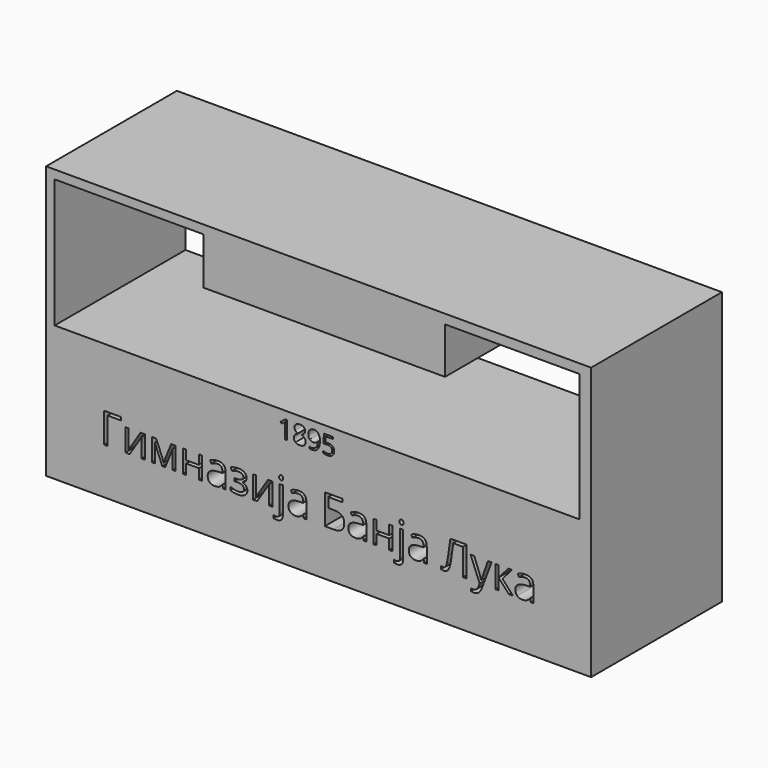
from build123d import *

# Parameters (mm, degrees)
F0_W     = 254
F0_H     = 80.4246884679
F0_H_2   = 6.6989886666
F0_H_3   = 39.8763228655
F1_DEPTH = 38.1


with BuildPart() as f1:
    # F0 (on Front) → F1 (new body, symmetric)
    with BuildSketch(Plane.XZ):
        with Locations((-18.8783840991, -40.2123442339)):
            Rectangle(F0_W, F0_H)
        with BuildLine():
            Line((-33.5726665378, -67.5467512968), (-33.5726665378, -75.8804157376))
            Line((-33.5726665378, -75.8804157376), (-34.4955893233, -75.8804157376))
            Line((-34.4955893233, -75.8804157376), (-34.4955893233, -69.9416082482))
            add(Edge.make_bspline(
                [(-34.4955893233, -69.9416082482), (-34.4955893233, -69.199257312), (-34.4499903715, -68.5389844891)],
                knots=[0, 0, 0, 1, 1, 1], degree=2))
            add(Edge.make_bspline(
                [(-34.4499903715, -68.5389844891), (-34.5685476463, -68.659365722), (-34.7172002294, -68.7897787243)],
                knots=[0, 0, 0, 1, 1, 1], degree=2))
            add(Edge.make_bspline(
                [(-34.7172002294, -68.7897787243), (-34.8658528124, -68.9201917266), (-36.0733130575, -69.9014811705)],
                knots=[0, 0, 0, 1, 1, 1], degree=2))
            Line((-36.0733130575, -69.9014811705), (-36.5749015279, -69.2521520961))
            Line((-36.5749015279, -69.2521520961), (-34.3697362162, -67.5467512968))
            Line((-34.3697362162, -67.5467512968), (-33.5726665378, -67.5467512968))
        make_face(mode=Mode.SUBTRACT)
        with BuildLine():
            add(Edge.make_bspline(
                [(-29.4377535837, -67.9662616539), (-28.7683609705, -67.428194022), (-27.6448027968, -67.428194022)],
                knots=[0, 0, 0, 1, 1, 1], degree=2))
            add(Edge.make_bspline(
                [(-27.6448027968, -67.428194022), (-26.5048290005, -67.428194022), (-25.8381723244, -67.9580538425)],
                knots=[0, 0, 0, 1, 1, 1], degree=2))
            add(Edge.make_bspline(
                [(-25.8381723244, -67.9580538425), (-25.1715156483, -68.4879136631), (-25.1715156483, -69.421780197)],
                knots=[0, 0, 0, 1, 1, 1], degree=2))
            add(Edge.make_bspline(
                [(-25.1715156483, -69.421780197), (-25.1715156483, -70.0382780261), (-25.5527228858, -70.5453383707)],
                knots=[0, 0, 0, 1, 1, 1], degree=2))
            add(Edge.make_bspline(
                [(-25.5527228858, -70.5453383707), (-25.9339301233, -71.0523987153), (-26.7729508374, -71.4682611562)],
                knots=[0, 0, 0, 1, 1, 1], degree=2))
            add(Edge.make_bspline(
                [(-26.7729508374, -71.4682611562), (-25.7588301481, -71.953434004), (-25.3311119797, -72.4860297616)],
                knots=[0, 0, 0, 1, 1, 1], degree=2))
            add(Edge.make_bspline(
                [(-25.3311119797, -72.4860297616), (-24.9033938114, -73.0186255193), (-24.9033938114, -73.7208493778)],
                knots=[0, 0, 0, 1, 1, 1], degree=2))
            add(Edge.make_bspline(
                [(-24.9033938114, -73.7208493778), (-24.9033938114, -74.7568575639), (-25.6275051668, -75.3760913301)],
                knots=[0, 0, 0, 1, 1, 1], degree=2))
            add(Edge.make_bspline(
                [(-25.6275051668, -75.3760913301), (-26.3516165222, -75.9953250963), (-27.6101475934, -75.9953250963)],
                knots=[0, 0, 0, 1, 1, 1], degree=2))
            add(Edge.make_bspline(
                [(-27.6101475934, -75.9953250963), (-28.9434609456, -75.9953250963), (-29.6621004268, -75.4107465335)],
                knots=[0, 0, 0, 1, 1, 1], degree=2))
            add(Edge.make_bspline(
                [(-29.6621004268, -75.4107465335), (-30.380739908, -74.8261679708), (-30.380739908, -73.7536806232)],
                knots=[0, 0, 0, 1, 1, 1], degree=2))
            add(Edge.make_bspline(
                [(-30.380739908, -73.7536806232), (-30.380739908, -72.323697493), (-28.6370359892, -71.5248038565)],
                knots=[0, 0, 0, 1, 1, 1], degree=2))
            add(Edge.make_bspline(
                [(-28.6370359892, -71.5248038565), (-29.4231619191, -71.0815820445), (-29.765154058, -70.5654019095)],
                knots=[0, 0, 0, 1, 1, 1], degree=2))
            add(Edge.make_bspline(
                [(-29.765154058, -70.5654019095), (-30.1071461969, -70.0492217746), (-30.1071461969, -69.4108364486)],
                knots=[0, 0, 0, 1, 1, 1], degree=2))
            add(Edge.make_bspline(
                [(-30.1071461969, -69.4108364486), (-30.1071461969, -68.5043292857), (-29.4377535837, -67.9662616539)],
                knots=[0, 0, 0, 1, 1, 1], degree=2))
        make_face(mode=Mode.SUBTRACT)
        with BuildLine():
            add(Edge.make_bspline(
                [(-18.5934108538, -69.1345068004), (-18.2514187149, -69.9689676193), (-18.2514187149, -71.1034695414)],
                knots=[0, 0, 0, 1, 1, 1], degree=2))
            add(Edge.make_bspline(
                [(-18.2514187149, -71.1034695414), (-18.2514187149, -75.9953250963), (-22.0361317188, -75.9953250963)],
                knots=[0, 0, 0, 1, 1, 1], degree=2))
            add(Edge.make_bspline(
                [(-22.0361317188, -75.9953250963), (-22.6982284997, -75.9953250963), (-23.0849076114, -75.8804157376)],
                knots=[0, 0, 0, 1, 1, 1], degree=2))
            Line((-23.0849076114, -75.8804157376), (-23.0849076114, -75.0651064785))
            add(Edge.make_bspline(
                [(-23.0849076114, -75.0651064785), (-22.6289180929, -75.2128470825), (-22.0488994253, -75.2128470825)],
                knots=[0, 0, 0, 1, 1, 1], degree=2))
            add(Edge.make_bspline(
                [(-22.0488994253, -75.2128470825), (-20.6809308697, -75.2128470825), (-19.9823549273, -74.3665305361)],
                knots=[0, 0, 0, 1, 1, 1], degree=2))
            add(Edge.make_bspline(
                [(-19.9823549273, -74.3665305361), (-19.2837789849, -73.5202139897), (-19.2217644104, -71.7710381966)],
                knots=[0, 0, 0, 1, 1, 1], degree=2))
            Line((-19.2217644104, -71.7710381966), (-19.2892508591, -71.7710381966))
            add(Edge.make_bspline(
                [(-19.2892508591, -71.7710381966), (-19.6029716479, -72.2434433378), (-20.12188772, -72.4915016358)],
                knots=[0, 0, 0, 1, 1, 1], degree=2))
            add(Edge.make_bspline(
                [(-20.12188772, -72.4915016358), (-20.640803792, -72.7395599339), (-21.2901328664, -72.7395599339)],
                knots=[0, 0, 0, 1, 1, 1], degree=2))
            add(Edge.make_bspline(
                [(-21.2901328664, -72.7395599339), (-22.3954514594, -72.7395599339), (-23.0456925128, -72.078375132)],
                knots=[0, 0, 0, 1, 1, 1], degree=2))
            add(Edge.make_bspline(
                [(-23.0456925128, -72.078375132), (-23.6959335663, -71.4171903302), (-23.6959335663, -70.231617582)],
                knots=[0, 0, 0, 1, 1, 1], degree=2))
            add(Edge.make_bspline(
                [(-23.6959335663, -70.231617582), (-23.6959335663, -68.9329594332), (-22.9690862737, -68.1805767276)],
                knots=[0, 0, 0, 1, 1, 1], degree=2))
            add(Edge.make_bspline(
                [(-22.9690862737, -68.1805767276), (-22.2422389812, -67.428194022), (-21.056666233, -67.428194022)],
                knots=[0, 0, 0, 1, 1, 1], degree=2))
            add(Edge.make_bspline(
                [(-21.056666233, -67.428194022), (-20.2067017704, -67.428194022), (-19.5710523816, -67.8641200017)],
                knots=[0, 0, 0, 1, 1, 1], degree=2))
            add(Edge.make_bspline(
                [(-19.5710523816, -67.8641200017), (-18.9354029927, -68.3000459814), (-18.5934108538, -69.1345068004)],
                knots=[0, 0, 0, 1, 1, 1], degree=2))
        make_face(mode=Mode.SUBTRACT)
        with BuildLine():
            add(Edge.make_bspline(
                [(-15.7562440695, -70.921073734), (-15.1014431208, -70.7897487527), (-14.4502900884, -70.7897487527)],
                knots=[0, 0, 0, 1, 1, 1], degree=2))
            add(Edge.make_bspline(
                [(-14.4502900884, -70.7897487527), (-13.1333923588, -70.7897487527), (-12.3782737161, -71.4427257432)],
                knots=[0, 0, 0, 1, 1, 1], degree=2))
            add(Edge.make_bspline(
                [(-12.3782737161, -71.4427257432), (-11.6231550734, -72.0957027338), (-11.6231550734, -73.2302046559)],
                knots=[0, 0, 0, 1, 1, 1], degree=2))
            add(Edge.make_bspline(
                [(-11.6231550734, -73.2302046559), (-11.6231550734, -74.5233909305), (-12.4466721439, -75.2593580134)],
                knots=[0, 0, 0, 1, 1, 1], degree=2))
            add(Edge.make_bspline(
                [(-12.4466721439, -75.2593580134), (-13.2701892144, -75.9953250963), (-14.7184119253, -75.9953250963)],
                knots=[0, 0, 0, 1, 1, 1], degree=2))
            add(Edge.make_bspline(
                [(-14.7184119253, -75.9953250963), (-16.1265075585, -75.9953250963), (-16.8670345366, -75.544807452)],
                knots=[0, 0, 0, 1, 1, 1], degree=2))
            Line((-16.8670345366, -75.544807452), (-16.8670345366, -74.6328284149))
            add(Edge.make_bspline(
                [(-16.8670345366, -74.6328284149), (-16.4694116765, -74.8881825453), (-15.8766253024, -75.0340991912)],
                knots=[0, 0, 0, 1, 1, 1], degree=2))
            add(Edge.make_bspline(
                [(-15.8766253024, -75.0340991912), (-15.2838389283, -75.1800158372), (-14.7074681768, -75.1800158372)],
                knots=[0, 0, 0, 1, 1, 1], degree=2))
            add(Edge.make_bspline(
                [(-14.7074681768, -75.1800158372), (-13.704291236, -75.1800158372), (-13.1488960024, -74.7066987169)],
                knots=[0, 0, 0, 1, 1, 1], degree=2))
            add(Edge.make_bspline(
                [(-13.1488960024, -74.7066987169), (-12.5935007689, -74.2333815967), (-12.5935007689, -73.3378181823)],
                knots=[0, 0, 0, 1, 1, 1], degree=2))
            add(Edge.make_bspline(
                [(-12.5935007689, -73.3378181823), (-12.5935007689, -71.5941142634), (-14.7293556737, -71.5941142634)],
                knots=[0, 0, 0, 1, 1, 1], degree=2))
            add(Edge.make_bspline(
                [(-14.7293556737, -71.5941142634), (-15.2710712217, -71.5941142634), (-16.1775783846, -71.7600944481)],
                knots=[0, 0, 0, 1, 1, 1], degree=2))
            Line((-16.1775783846, -71.7600944481), (-16.6682231065, -71.4463736594))
            Line((-16.6682231065, -71.4463736594), (-16.3545023178, -67.5467512968))
            Line((-16.3545023178, -67.5467512968), (-12.2104695733, -67.5467512968))
            Line((-12.2104695733, -67.5467512968), (-12.2104695733, -68.4186032563))
            Line((-12.2104695733, -68.4186032563), (-15.5446649329, -68.4186032563))
            Line((-15.5446649329, -68.4186032563), (-15.7562440695, -70.921073734))
        make_face(mode=Mode.SUBTRACT)
        Polygon((-141.880650785, -63.996888092), (-141.880650785, -4.0593039032), (-72.6079227722, -4.0593039032), (-72.6079227722, -25.9319059551), (40.0382733046, -25.9319059551), (40.0382733046, -4.3713459507), (102.7581814154, -4.3713459507), (102.7581814154, -63.996888092), (40.0382733046, -63.996888092), (-72.6079227722, -63.996888092), align=None, mode=Mode.SUBTRACT)
        with Locations((-18.8783840991, -83.7741828012)):
            Rectangle(F0_W, F0_H_2)
        with Locations((-18.8783840991, -107.0618385673)):
            Rectangle(F0_W, F0_H_3)
        Polygon((-118.8180874411, -91.472205822), (-111.0443757989, -91.472205822), (-111.0443757989, -92.9311120509), (-117.1974196429, -92.9311120509), (-117.1974196429, -105.4172739387), (-118.8180874411, -105.4172739387), align=None, mode=Mode.SUBTRACT)
        Polygon((-108.8987459268, -94.9638140351), (-107.4093186471, -94.9638140351), (-107.4093186471, -101.5929862717), (-107.4764649589, -103.329634063), (-107.5069860097, -103.8729087675), (-101.851435294, -94.9638140351), (-99.8767233063, -94.9638140351), (-99.8767233063, -105.4172739387), (-101.3539421657, -105.4172739387), (-101.3539421657, -99.0261658983), (-101.32647322, -97.7686986048), (-101.2776395387, -96.5264918367), (-106.9240339391, -105.4172739387), (-108.8987459268, -105.4172739387), align=None, mode=Mode.SUBTRACT)
        with BuildLine():
            add(Edge.make_bspline(
                [(-91.8466348373, -101.6112989022), (-91.4346006514, -102.6612230502), (-91.0927648823, -103.891221398)],
                knots=[0, 0, 0, 1, 1, 1], degree=2))
            Line((-91.0927648823, -103.891221398), (-90.7967106894, -103.0030588193))
            Line((-90.7967106894, -103.0030588193), (-90.3877286085, -101.8798841494))
            Line((-90.3877286085, -101.8798841494), (-87.5523229879, -94.9821266656))
            Line((-87.5523229879, -94.9821266656), (-85.5409857393, -94.9821266656))
            Line((-85.5409857393, -94.9821266656), (-85.5409857393, -105.4172739387))
            Line((-85.5409857393, -105.4172739387), (-86.9419019716, -105.4172739387))
            Line((-86.9419019716, -105.4172739387), (-86.9419019716, -96.7859207686))
            Line((-86.9419019716, -96.7859207686), (-87.1341845918, -97.3383517884))
            Line((-87.1341845918, -97.3383517884), (-87.6866156115, -98.7972580172))
            Line((-87.6866156115, -98.7972580172), (-90.3877286085, -105.4172739387))
            Line((-90.3877286085, -105.4172739387), (-91.7123422138, -105.4172739387))
            Line((-91.7123422138, -105.4172739387), (-94.4104031057, -98.7789453868))
            add(Edge.make_bspline(
                [(-94.4104031057, -98.7789453868), (-94.9170525492, -97.5001133577), (-95.1062830642, -96.7859207686)],
                knots=[0, 0, 0, 1, 1, 1], degree=2))
            Line((-95.1062830642, -96.7859207686), (-95.1062830642, -105.4172739387))
            Line((-95.1062830642, -105.4172739387), (-96.5194077169, -105.4172739387))
            Line((-96.5194077169, -105.4172739387), (-96.5194077169, -94.9821266656))
            Line((-96.5194077169, -94.9821266656), (-94.5843730953, -94.9821266656))
            Line((-94.5843730953, -94.9821266656), (-91.8466348373, -101.6112989022))
        make_face(mode=Mode.SUBTRACT)
        Polygon((-82.1653575194, -94.9638140351), (-80.5813149821, -94.9638140351), (-80.5813149821, -99.3405327217), (-74.7243253311, -99.3405327217), (-74.7243253311, -94.9638140351), (-73.1433348989, -94.9638140351), (-73.1433348989, -105.4172739387), (-74.7243253311, -105.4172739387), (-74.7243253311, -100.7048236931), (-80.5813149821, -100.7048236931), (-80.5813149821, -105.4172739387), (-82.1653575194, -105.4172739387), align=None, mode=Mode.SUBTRACT)
        with BuildLine():
            Line((-62.1832255519, -105.4172739387), (-63.3582860082, -105.4172739387))
            Line((-63.3582860082, -105.4172739387), (-63.6726528316, -103.927846659))
            Line((-63.6726528316, -103.927846659), (-63.7489554586, -103.927846659))
            add(Edge.make_bspline(
                [(-63.7489554586, -103.927846659), (-64.5302943594, -104.9106244952), (-65.3070551026, -105.260090527)],
                knots=[0, 0, 0, 1, 1, 1], degree=2))
            add(Edge.make_bspline(
                [(-65.3070551026, -105.260090527), (-66.0838158458, -105.6095565588), (-67.2497199869, -105.6095565588)],
                knots=[0, 0, 0, 1, 1, 1], degree=2))
            add(Edge.make_bspline(
                [(-67.2497199869, -105.6095565588), (-68.8032414733, -105.6095565588), (-69.6852998418, -104.8068529224)],
                knots=[0, 0, 0, 1, 1, 1], degree=2))
            add(Edge.make_bspline(
                [(-69.6852998418, -104.8068529224), (-70.5673582103, -104.004149286), (-70.5673582103, -102.5269304266)],
                knots=[0, 0, 0, 1, 1, 1], degree=2))
            add(Edge.make_bspline(
                [(-70.5673582103, -102.5269304266), (-70.5673582103, -99.3618974573), (-65.5039158804, -99.2092922032)],
                knots=[0, 0, 0, 1, 1, 1], degree=2))
            Line((-65.5039158804, -99.2092922032), (-63.7306428281, -99.1513022067))
            Line((-63.7306428281, -99.1513022067), (-63.7306428281, -98.5012038244))
            add(Edge.make_bspline(
                [(-63.7306428281, -98.5012038244), (-63.7306428281, -97.2712054766), (-64.2586570072, -96.685201301)],
                knots=[0, 0, 0, 1, 1, 1], degree=2))
            add(Edge.make_bspline(
                [(-64.2586570072, -96.685201301), (-64.7866711862, -96.0991971253), (-65.9525753273, -96.0991971253)],
                knots=[0, 0, 0, 1, 1, 1], degree=2))
            add(Edge.make_bspline(
                [(-65.9525753273, -96.0991971253), (-67.2588763021, -96.0991971253), (-68.907013046, -96.8988486567)],
                knots=[0, 0, 0, 1, 1, 1], degree=2))
            Line((-68.907013046, -96.8988486567), (-69.3953498591, -95.6871629394))
            add(Edge.make_bspline(
                [(-69.3953498591, -95.6871629394), (-68.6231672735, -95.2690245432), (-67.7029575915, -95.0309603469)],
                knots=[0, 0, 0, 1, 1, 1], degree=2))
            add(Edge.make_bspline(
                [(-67.7029575915, -95.0309603469), (-66.7827479094, -94.7928961505), (-65.8549079647, -94.7928961505)],
                knots=[0, 0, 0, 1, 1, 1], degree=2))
            add(Edge.make_bspline(
                [(-65.8549079647, -94.7928961505), (-63.9870196549, -94.7928961505), (-63.0851226034, -95.6215426801)],
                knots=[0, 0, 0, 1, 1, 1], degree=2))
            add(Edge.make_bspline(
                [(-63.0851226034, -95.6215426801), (-62.1832255519, -96.4501892097), (-62.1832255519, -98.2814522585)],
                knots=[0, 0, 0, 1, 1, 1], degree=2))
            Line((-62.1832255519, -98.2814522585), (-62.1832255519, -105.4172739387))
        make_face(mode=Mode.SUBTRACT)
        with BuildLine():
            Line((-58.0659357971, -99.3039074607), (-56.9305527069, -99.3039074607))
            add(Edge.make_bspline(
                [(-56.9305527069, -99.3039074607), (-53.9639065678, -99.3039074607), (-53.9639065678, -97.661874927)],
                knots=[0, 0, 0, 1, 1, 1], degree=2))
            add(Edge.make_bspline(
                [(-53.9639065678, -97.661874927), (-53.9639065678, -96.1175097558), (-56.3659132668, -96.1175097558)],
                knots=[0, 0, 0, 1, 1, 1], degree=2))
            add(Edge.make_bspline(
                [(-56.3659132668, -96.1175097558), (-57.1014705914, -96.1175097558), (-57.7027352925, -96.2518023794)],
                knots=[0, 0, 0, 1, 1, 1], degree=2))
            add(Edge.make_bspline(
                [(-57.7027352925, -96.2518023794), (-58.3039999935, -96.386095003), (-59.2776215144, -96.7859207686)],
                knots=[0, 0, 0, 1, 1, 1], degree=2))
            Line((-59.2776215144, -96.7859207686), (-59.8392088494, -95.4979324243))
            add(Edge.make_bspline(
                [(-59.8392088494, -95.4979324243), (-58.2185410512, -94.771531415), (-56.3018190601, -94.771531415)],
                knots=[0, 0, 0, 1, 1, 1], degree=2))
            add(Edge.make_bspline(
                [(-56.3018190601, -94.771531415), (-54.4980249571, -94.771531415), (-53.4587831769, -95.5116668972)],
                knots=[0, 0, 0, 1, 1, 1], degree=2))
            add(Edge.make_bspline(
                [(-53.4587831769, -95.5116668972), (-52.4195413967, -96.2518023794), (-52.4195413967, -97.5306344085)],
                knots=[0, 0, 0, 1, 1, 1], degree=2))
            add(Edge.make_bspline(
                [(-52.4195413967, -97.5306344085), (-52.4195413967, -99.2855948303), (-54.3728886487, -99.8288695347)],
                knots=[0, 0, 0, 1, 1, 1], degree=2))
            Line((-54.3728886487, -99.8288695347), (-54.3728886487, -99.9051721618))
            add(Edge.make_bspline(
                [(-54.3728886487, -99.9051721618), (-53.1734113518, -100.2561642461), (-52.6194542795, -100.9093147335)],
                knots=[0, 0, 0, 1, 1, 1], degree=2))
            add(Edge.make_bspline(
                [(-52.6194542795, -100.9093147335), (-52.0654972072, -101.5624652209), (-52.0654972072, -102.5452430571)],
                knots=[0, 0, 0, 1, 1, 1], degree=2))
            add(Edge.make_bspline(
                [(-52.0654972072, -102.5452430571), (-52.0654972072, -103.9949929708), (-53.2344534534, -104.8022747648)],
                knots=[0, 0, 0, 1, 1, 1], degree=2))
            add(Edge.make_bspline(
                [(-53.2344534534, -104.8022747648), (-54.4034096995, -105.6095565588), (-56.4635806294, -105.6095565588)],
                knots=[0, 0, 0, 1, 1, 1], degree=2))
            add(Edge.make_bspline(
                [(-56.4635806294, -105.6095565588), (-58.7221383896, -105.6095565588), (-59.9521367374, -104.9319892307)],
                knots=[0, 0, 0, 1, 1, 1], degree=2))
            Line((-59.9521367374, -104.9319892307), (-59.9521367374, -103.4822393171))
            add(Edge.make_bspline(
                [(-59.9521367374, -103.4822393171), (-58.209384736, -104.3002034789), (-56.4239032634, -104.3002034789)],
                knots=[0, 0, 0, 1, 1, 1], degree=2))
            add(Edge.make_bspline(
                [(-56.4239032634, -104.3002034789), (-55.0504559768, -104.3002034789), (-54.3499978606, -103.8286532438)],
                knots=[0, 0, 0, 1, 1, 1], degree=2))
            add(Edge.make_bspline(
                [(-54.3499978606, -103.8286532438), (-53.6495397444, -103.3571030088), (-53.6495397444, -102.4689404301)],
                knots=[0, 0, 0, 1, 1, 1], degree=2))
            add(Edge.make_bspline(
                [(-53.6495397444, -102.4689404301), (-53.6495397444, -100.6468336965), (-56.6161858835, -100.6468336965)],
                knots=[0, 0, 0, 1, 1, 1], degree=2))
            Line((-56.6161858835, -100.6468336965), (-58.0659357971, -100.6468336965))
            Line((-58.0659357971, -100.6468336965), (-58.0659357971, -99.3039074607))
        make_face(mode=Mode.SUBTRACT)
        Polygon((-49.4895205186, -94.9638140351), (-48.0000932389, -94.9638140351), (-48.0000932389, -101.5929862717), (-48.0672395507, -103.329634063), (-48.0977606015, -103.8729087675), (-42.4422098858, -94.9638140351), (-40.4674978982, -94.9638140351), (-40.4674978982, -105.4172739387), (-41.9447167575, -105.4172739387), (-41.9447167575, -99.0261658983), (-41.9172478118, -97.7686986048), (-41.8684141305, -96.5264918367), (-47.514808531, -105.4172739387), (-49.4895205186, -105.4172739387), align=None, mode=Mode.SUBTRACT)
        with BuildLine():
            add(Edge.make_bspline(
                [(-35.5261397715, -107.0196291064), (-35.5261397715, -110.1114115537), (-38.3798580225, -110.1114115537)],
                knots=[0, 0, 0, 1, 1, 1], degree=2))
            add(Edge.make_bspline(
                [(-38.3798580225, -110.1114115537), (-39.2863332317, -110.1114115537), (-39.8479205667, -109.8702952523)],
                knots=[0, 0, 0, 1, 1, 1], degree=2))
            Line((-39.8479205667, -109.8702952523), (-39.8479205667, -108.5853590131))
            add(Edge.make_bspline(
                [(-39.8479205667, -108.5853590131), (-39.1886658691, -108.7745895281), (-38.5507759071, -108.7745895281)],
                knots=[0, 0, 0, 1, 1, 1], degree=2))
            add(Edge.make_bspline(
                [(-38.5507759071, -108.7745895281), (-37.8060622672, -108.7745895281), (-37.458122288, -108.3686595523)],
                knots=[0, 0, 0, 1, 1, 1], degree=2))
            add(Edge.make_bspline(
                [(-37.458122288, -108.3686595523), (-37.1101823087, -107.9627295765), (-37.1101823087, -107.1356090994)],
                knots=[0, 0, 0, 1, 1, 1], degree=2))
            Line((-37.1101823087, -107.1356090994), (-37.1101823087, -94.9638140351))
            Line((-37.1101823087, -94.9638140351), (-35.5261397715, -94.9638140351))
            Line((-35.5261397715, -94.9638140351), (-35.5261397715, -107.0196291064))
        make_face(mode=Mode.SUBTRACT)
        with BuildLine():
            Line((-24.5660304244, -105.4172739387), (-25.7410908807, -105.4172739387))
            Line((-25.7410908807, -105.4172739387), (-26.0554577041, -103.927846659))
            Line((-26.0554577041, -103.927846659), (-26.1317603311, -103.927846659))
            add(Edge.make_bspline(
                [(-26.1317603311, -103.927846659), (-26.913099232, -104.9106244952), (-27.6898599752, -105.260090527)],
                knots=[0, 0, 0, 1, 1, 1], degree=2))
            add(Edge.make_bspline(
                [(-27.6898599752, -105.260090527), (-28.4666207184, -105.6095565588), (-29.6325248594, -105.6095565588)],
                knots=[0, 0, 0, 1, 1, 1], degree=2))
            add(Edge.make_bspline(
                [(-29.6325248594, -105.6095565588), (-31.1860463458, -105.6095565588), (-32.0681047143, -104.8068529224)],
                knots=[0, 0, 0, 1, 1, 1], degree=2))
            add(Edge.make_bspline(
                [(-32.0681047143, -104.8068529224), (-32.9501630828, -104.004149286), (-32.9501630828, -102.5269304266)],
                knots=[0, 0, 0, 1, 1, 1], degree=2))
            add(Edge.make_bspline(
                [(-32.9501630828, -102.5269304266), (-32.9501630828, -99.3618974573), (-27.8867207529, -99.2092922032)],
                knots=[0, 0, 0, 1, 1, 1], degree=2))
            Line((-27.8867207529, -99.2092922032), (-26.1134477006, -99.1513022067))
            Line((-26.1134477006, -99.1513022067), (-26.1134477006, -98.5012038244))
            add(Edge.make_bspline(
                [(-26.1134477006, -98.5012038244), (-26.1134477006, -97.2712054766), (-26.6414618797, -96.685201301)],
                knots=[0, 0, 0, 1, 1, 1], degree=2))
            add(Edge.make_bspline(
                [(-26.6414618797, -96.685201301), (-27.1694760588, -96.0991971253), (-28.3353801999, -96.0991971253)],
                knots=[0, 0, 0, 1, 1, 1], degree=2))
            add(Edge.make_bspline(
                [(-28.3353801999, -96.0991971253), (-29.6416811747, -96.0991971253), (-31.2898179186, -96.8988486567)],
                knots=[0, 0, 0, 1, 1, 1], degree=2))
            Line((-31.2898179186, -96.8988486567), (-31.7781547316, -95.6871629394))
            add(Edge.make_bspline(
                [(-31.7781547316, -95.6871629394), (-31.005972146, -95.2690245432), (-30.085762464, -95.0309603469)],
                knots=[0, 0, 0, 1, 1, 1], degree=2))
            add(Edge.make_bspline(
                [(-30.085762464, -95.0309603469), (-29.165552782, -94.7928961505), (-28.2377128373, -94.7928961505)],
                knots=[0, 0, 0, 1, 1, 1], degree=2))
            add(Edge.make_bspline(
                [(-28.2377128373, -94.7928961505), (-26.3698245275, -94.7928961505), (-25.4679274759, -95.6215426801)],
                knots=[0, 0, 0, 1, 1, 1], degree=2))
            add(Edge.make_bspline(
                [(-25.4679274759, -95.6215426801), (-24.5660304244, -96.4501892097), (-24.5660304244, -98.2814522585)],
                knots=[0, 0, 0, 1, 1, 1], degree=2))
            Line((-24.5660304244, -98.2814522585), (-24.5660304244, -105.4172739387))
        make_face(mode=Mode.SUBTRACT)
        with BuildLine():
            add(Edge.make_bspline(
                [(-36.9774157377, -92.9280599458), (-37.2444749323, -92.6655789088), (-37.2444749323, -92.1314605196)],
                knots=[0, 0, 0, 1, 1, 1], degree=2))
            add(Edge.make_bspline(
                [(-37.2444749323, -92.1314605196), (-37.2444749323, -91.5881858151), (-36.9774157377, -91.3348610934)],
                knots=[0, 0, 0, 1, 1, 1], degree=2))
            add(Edge.make_bspline(
                [(-36.9774157377, -91.3348610934), (-36.710356543, -91.0815363716), (-36.3074786723, -91.0815363716)],
                knots=[0, 0, 0, 1, 1, 1], degree=2))
            add(Edge.make_bspline(
                [(-36.3074786723, -91.0815363716), (-35.9259655371, -91.0815363716), (-35.6497500273, -91.339439251)],
                knots=[0, 0, 0, 1, 1, 1], degree=2))
            add(Edge.make_bspline(
                [(-35.6497500273, -91.339439251), (-35.3735345174, -91.5973421304), (-35.3735345174, -92.1314605196)],
                knots=[0, 0, 0, 1, 1, 1], degree=2))
            add(Edge.make_bspline(
                [(-35.3735345174, -92.1314605196), (-35.3735345174, -92.6655789088), (-35.6497500273, -92.9280599458)],
                knots=[0, 0, 0, 1, 1, 1], degree=2))
            add(Edge.make_bspline(
                [(-35.6497500273, -92.9280599458), (-35.9259655371, -93.1905409828), (-36.3074786723, -93.1905409828)],
                knots=[0, 0, 0, 1, 1, 1], degree=2))
            add(Edge.make_bspline(
                [(-36.3074786723, -93.1905409828), (-36.710356543, -93.1905409828), (-36.9774157377, -92.9280599458)],
                knots=[0, 0, 0, 1, 1, 1], degree=2))
        make_face(mode=Mode.SUBTRACT)
        with BuildLine():
            add(Edge.make_bspline(
                [(-7.5032369672, -99.1024685254), (-6.949279895, -99.9326411075), (-6.949279895, -101.3549220754)],
                knots=[0, 0, 0, 1, 1, 1], degree=2))
            add(Edge.make_bspline(
                [(-6.949279895, -101.3549220754), (-6.949279895, -103.4334056358), (-8.1853824529, -104.4253397872)],
                knots=[0, 0, 0, 1, 1, 1], degree=2))
            add(Edge.make_bspline(
                [(-8.1853824529, -104.4253397872), (-9.4214850108, -105.4172739387), (-11.9089506521, -105.4172739387)],
                knots=[0, 0, 0, 1, 1, 1], degree=2))
            Line((-11.9089506521, -105.4172739387), (-15.9926672509, -105.4172739387))
            Line((-15.9926672509, -105.4172739387), (-15.9926672509, -91.472205822))
            Line((-15.9926672509, -91.472205822), (-7.7702961618, -91.472205822))
            Line((-7.7702961618, -91.472205822), (-7.7702961618, -92.9127994204))
            Line((-7.7702961618, -92.9127994204), (-14.3719994528, -92.9127994204))
            Line((-14.3719994528, -92.9127994204), (-14.3719994528, -97.4238107306))
            Line((-14.3719994528, -97.4238107306), (-12.205004845, -97.4238107306))
            add(Edge.make_bspline(
                [(-12.205004845, -97.4238107306), (-10.364585481, -97.4238107306), (-9.2108897602, -97.8480533369)],
                knots=[0, 0, 0, 1, 1, 1], degree=2))
            add(Edge.make_bspline(
                [(-9.2108897602, -97.8480533369), (-8.0571940395, -98.2722959433), (-7.5032369672, -99.1024685254)],
                knots=[0, 0, 0, 1, 1, 1], degree=2))
        make_face(mode=Mode.SUBTRACT)
        with BuildLine():
            Line((3.3424184393, -105.4172739387), (2.167357983, -105.4172739387))
            Line((2.167357983, -105.4172739387), (1.8529911596, -103.927846659))
            Line((1.8529911596, -103.927846659), (1.7766885326, -103.927846659))
            add(Edge.make_bspline(
                [(1.7766885326, -103.927846659), (0.9953496318, -104.9106244952), (0.2185888886, -105.260090527)],
                knots=[0, 0, 0, 1, 1, 1], degree=2))
            add(Edge.make_bspline(
                [(0.2185888886, -105.260090527), (-0.5581718546, -105.6095565588), (-1.7240759957, -105.6095565588)],
                knots=[0, 0, 0, 1, 1, 1], degree=2))
            add(Edge.make_bspline(
                [(-1.7240759957, -105.6095565588), (-3.2775974821, -105.6095565588), (-4.1596558506, -104.8068529224)],
                knots=[0, 0, 0, 1, 1, 1], degree=2))
            add(Edge.make_bspline(
                [(-4.1596558506, -104.8068529224), (-5.0417142191, -104.004149286), (-5.0417142191, -102.5269304266)],
                knots=[0, 0, 0, 1, 1, 1], degree=2))
            add(Edge.make_bspline(
                [(-5.0417142191, -102.5269304266), (-5.0417142191, -99.3618974573), (0.0217281108, -99.2092922032)],
                knots=[0, 0, 0, 1, 1, 1], degree=2))
            Line((0.0217281108, -99.2092922032), (1.7950011631, -99.1513022067))
            Line((1.7950011631, -99.1513022067), (1.7950011631, -98.5012038244))
            add(Edge.make_bspline(
                [(1.7950011631, -98.5012038244), (1.7950011631, -97.2712054766), (1.266986984, -96.685201301)],
                knots=[0, 0, 0, 1, 1, 1], degree=2))
            add(Edge.make_bspline(
                [(1.266986984, -96.685201301), (0.7389728049, -96.0991971253), (-0.4269313361, -96.0991971253)],
                knots=[0, 0, 0, 1, 1, 1], degree=2))
            add(Edge.make_bspline(
                [(-0.4269313361, -96.0991971253), (-1.733232311, -96.0991971253), (-3.3813690549, -96.8988486567)],
                knots=[0, 0, 0, 1, 1, 1], degree=2))
            Line((-3.3813690549, -96.8988486567), (-3.8697058679, -95.6871629394))
            add(Edge.make_bspline(
                [(-3.8697058679, -95.6871629394), (-3.0975232823, -95.2690245432), (-2.1773136003, -95.0309603469)],
                knots=[0, 0, 0, 1, 1, 1], degree=2))
            add(Edge.make_bspline(
                [(-2.1773136003, -95.0309603469), (-1.2571039183, -94.7928961505), (-0.3292639735, -94.7928961505)],
                knots=[0, 0, 0, 1, 1, 1], degree=2))
            add(Edge.make_bspline(
                [(-0.3292639735, -94.7928961505), (1.5386243362, -94.7928961505), (2.4405213878, -95.6215426801)],
                knots=[0, 0, 0, 1, 1, 1], degree=2))
            add(Edge.make_bspline(
                [(2.4405213878, -95.6215426801), (3.3424184393, -96.4501892097), (3.3424184393, -98.2814522585)],
                knots=[0, 0, 0, 1, 1, 1], degree=2))
            Line((3.3424184393, -98.2814522585), (3.3424184393, -105.4172739387))
        make_face(mode=Mode.SUBTRACT)
        Polygon((6.6020666662, -94.9638140351), (8.1861092034, -94.9638140351), (8.1861092034, -99.3405327217), (14.0430988545, -99.3405327217), (14.0430988545, -94.9638140351), (15.6240892866, -94.9638140351), (15.6240892866, -105.4172739387), (14.0430988545, -105.4172739387), (14.0430988545, -100.7048236931), (8.1861092034, -100.7048236931), (8.1861092034, -105.4172739387), (6.6020666662, -105.4172739387), align=None, mode=Mode.SUBTRACT)
        with BuildLine():
            add(Edge.make_bspline(
                [(20.5654474133, -107.0196291064), (20.5654474133, -110.1114115537), (17.7117291622, -110.1114115537)],
                knots=[0, 0, 0, 1, 1, 1], degree=2))
            add(Edge.make_bspline(
                [(17.7117291622, -110.1114115537), (16.8052539531, -110.1114115537), (16.2436666181, -109.8702952523)],
                knots=[0, 0, 0, 1, 1, 1], degree=2))
            Line((16.2436666181, -109.8702952523), (16.2436666181, -108.5853590131))
            add(Edge.make_bspline(
                [(16.2436666181, -108.5853590131), (16.9029213157, -108.7745895281), (17.5408112777, -108.7745895281)],
                knots=[0, 0, 0, 1, 1, 1], degree=2))
            add(Edge.make_bspline(
                [(17.5408112777, -108.7745895281), (18.2855249175, -108.7745895281), (18.6334648968, -108.3686595523)],
                knots=[0, 0, 0, 1, 1, 1], degree=2))
            add(Edge.make_bspline(
                [(18.6334648968, -108.3686595523), (18.9814048761, -107.9627295765), (18.9814048761, -107.1356090994)],
                knots=[0, 0, 0, 1, 1, 1], degree=2))
            Line((18.9814048761, -107.1356090994), (18.9814048761, -94.9638140351))
            Line((18.9814048761, -94.9638140351), (20.5654474133, -94.9638140351))
            Line((20.5654474133, -94.9638140351), (20.5654474133, -107.0196291064))
        make_face(mode=Mode.SUBTRACT)
        with BuildLine():
            Line((31.5255567604, -105.4172739387), (30.350496304, -105.4172739387))
            Line((30.350496304, -105.4172739387), (30.0361294807, -103.927846659))
            Line((30.0361294807, -103.927846659), (29.9598268536, -103.927846659))
            add(Edge.make_bspline(
                [(29.9598268536, -103.927846659), (29.1784879528, -104.9106244952), (28.4017272096, -105.260090527)],
                knots=[0, 0, 0, 1, 1, 1], degree=2))
            add(Edge.make_bspline(
                [(28.4017272096, -105.260090527), (27.6249664664, -105.6095565588), (26.4590623253, -105.6095565588)],
                knots=[0, 0, 0, 1, 1, 1], degree=2))
            add(Edge.make_bspline(
                [(26.4590623253, -105.6095565588), (24.9055408389, -105.6095565588), (24.0234824704, -104.8068529224)],
                knots=[0, 0, 0, 1, 1, 1], degree=2))
            add(Edge.make_bspline(
                [(24.0234824704, -104.8068529224), (23.1414241019, -104.004149286), (23.1414241019, -102.5269304266)],
                knots=[0, 0, 0, 1, 1, 1], degree=2))
            add(Edge.make_bspline(
                [(23.1414241019, -102.5269304266), (23.1414241019, -99.3618974573), (28.2048664319, -99.2092922032)],
                knots=[0, 0, 0, 1, 1, 1], degree=2))
            Line((28.2048664319, -99.2092922032), (29.9781394841, -99.1513022067))
            Line((29.9781394841, -99.1513022067), (29.9781394841, -98.5012038244))
            add(Edge.make_bspline(
                [(29.9781394841, -98.5012038244), (29.9781394841, -97.2712054766), (29.450125305, -96.685201301)],
                knots=[0, 0, 0, 1, 1, 1], degree=2))
            add(Edge.make_bspline(
                [(29.450125305, -96.685201301), (28.922111126, -96.0991971253), (27.7562069849, -96.0991971253)],
                knots=[0, 0, 0, 1, 1, 1], degree=2))
            add(Edge.make_bspline(
                [(27.7562069849, -96.0991971253), (26.4499060101, -96.0991971253), (24.8017692662, -96.8988486567)],
                knots=[0, 0, 0, 1, 1, 1], degree=2))
            Line((24.8017692662, -96.8988486567), (24.3134324532, -95.6871629394))
            add(Edge.make_bspline(
                [(24.3134324532, -95.6871629394), (25.0856150387, -95.2690245432), (26.0058247208, -95.0309603469)],
                knots=[0, 0, 0, 1, 1, 1], degree=2))
            add(Edge.make_bspline(
                [(26.0058247208, -95.0309603469), (26.9260344028, -94.7928961505), (27.8538743475, -94.7928961505)],
                knots=[0, 0, 0, 1, 1, 1], degree=2))
            add(Edge.make_bspline(
                [(27.8538743475, -94.7928961505), (29.7217626573, -94.7928961505), (30.6236597088, -95.6215426801)],
                knots=[0, 0, 0, 1, 1, 1], degree=2))
            add(Edge.make_bspline(
                [(30.6236597088, -95.6215426801), (31.5255567604, -96.4501892097), (31.5255567604, -98.2814522585)],
                knots=[0, 0, 0, 1, 1, 1], degree=2))
            Line((31.5255567604, -98.2814522585), (31.5255567604, -105.4172739387))
        make_face(mode=Mode.SUBTRACT)
        with BuildLine():
            Line((50.0182614482, -91.472205822), (50.0182614482, -105.4172739387))
            Line((50.0182614482, -105.4172739387), (48.39759365, -105.4172739387))
            Line((48.39759365, -105.4172739387), (48.39759365, -92.9127994204))
            Line((48.39759365, -92.9127994204), (43.8682697093, -92.9127994204))
            Line((43.8682697093, -92.9127994204), (43.5722155164, -95.2018782314))
            add(Edge.make_bspline(
                [(43.5722155164, -95.2018782314), (42.9892634458, -99.7708795382), (42.5451821565, -101.8829362545)],
                knots=[0, 0, 0, 1, 1, 1], degree=2))
            add(Edge.make_bspline(
                [(42.5451821565, -101.8829362545), (42.1011008672, -103.9949929708), (41.3762259104, -104.8251655529)],
                knots=[0, 0, 0, 1, 1, 1], degree=2))
            add(Edge.make_bspline(
                [(41.3762259104, -104.8251655529), (40.6513509535, -105.655338135), (39.4518736566, -105.6370255045)],
                knots=[0, 0, 0, 1, 1, 1], degree=2))
            add(Edge.make_bspline(
                [(39.4518736566, -105.6370255045), (38.7437852777, -105.6370255045), (38.1821979427, -105.3989613082)],
                knots=[0, 0, 0, 1, 1, 1], degree=2))
            Line((38.1821979427, -105.3989613082), (38.1821979427, -104.0346703368))
            add(Edge.make_bspline(
                [(38.1821979427, -104.0346703368), (38.6980037015, -104.2818908484), (39.2595910365, -104.2818908484)],
                knots=[0, 0, 0, 1, 1, 1], degree=2))
            add(Edge.make_bspline(
                [(39.2595910365, -104.2818908484), (39.76624048, -104.2818908484), (40.1431754575, -103.8668045573)],
                knots=[0, 0, 0, 1, 1, 1], degree=2))
            add(Edge.make_bspline(
                [(40.1431754575, -103.8668045573), (40.520110435, -103.4517182663), (40.8100604178, -102.4262109589)],
                knots=[0, 0, 0, 1, 1, 1], degree=2))
            add(Edge.make_bspline(
                [(40.8100604178, -102.4262109589), (41.1000104005, -101.4007036516), (41.5440916898, -98.5347769802)],
                knots=[0, 0, 0, 1, 1, 1], degree=2))
            add(Edge.make_bspline(
                [(41.5440916898, -98.5347769802), (41.9881729792, -95.6688503089), (42.5222913684, -91.472205822)],
                knots=[0, 0, 0, 1, 1, 1], degree=2))
            Line((42.5222913684, -91.472205822), (50.0182614482, -91.472205822))
        make_face(mode=Mode.SUBTRACT)
        with BuildLine():
            Line((56.1713052921, -105.4752639352), (51.9532960697, -94.9638140351))
            Line((51.9532960697, -94.9638140351), (53.6533186, -94.9638140351))
            Line((53.6533186, -94.9638140351), (55.942397411, -100.9245752589))
            add(Edge.make_bspline(
                [(55.942397411, -100.9245752589), (56.693215261, -102.9664335583), (56.8763415659, -103.8729087675)],
                knots=[0, 0, 0, 1, 1, 1], degree=2))
            Line((56.8763415659, -103.8729087675), (56.9526441929, -103.8729087675))
            add(Edge.make_bspline(
                [(56.9526441929, -103.8729087675), (57.0747283962, -103.3845719545), (57.4715020568, -102.2064593931)],
                knots=[0, 0, 0, 1, 1, 1], degree=2))
            add(Edge.make_bspline(
                [(57.4715020568, -102.2064593931), (57.8682757173, -101.0283468317), (60.0627392708, -94.9638140351)],
                knots=[0, 0, 0, 1, 1, 1], degree=2))
            Line((60.0627392708, -94.9638140351), (61.759709696, -94.9638140351))
            Line((61.759709696, -94.9638140351), (57.2670110163, -106.8670238523))
            add(Edge.make_bspline(
                [(57.2670110163, -106.8670238523), (56.5986000035, -108.6311405893), (55.7073853198, -109.3712760715)],
                knots=[0, 0, 0, 1, 1, 1], degree=2))
            add(Edge.make_bspline(
                [(55.7073853198, -109.3712760715), (54.816170636, -110.1114115537), (53.5190259764, -110.1114115537)],
                knots=[0, 0, 0, 1, 1, 1], degree=2))
            add(Edge.make_bspline(
                [(53.5190259764, -110.1114115537), (52.7926249671, -110.1114115537), (52.0875886933, -109.9465978794)],
                knots=[0, 0, 0, 1, 1, 1], degree=2))
            Line((52.0875886933, -109.9465978794), (52.0875886933, -108.6799742706))
            add(Edge.make_bspline(
                [(52.0875886933, -108.6799742706), (52.6125507673, -108.7929021586), (53.2595970445, -108.7929021586)],
                knots=[0, 0, 0, 1, 1, 1], degree=2))
            add(Edge.make_bspline(
                [(53.2595970445, -108.7929021586), (54.892473263, -108.7929021586), (55.5883532216, -106.9616391098)],
                knots=[0, 0, 0, 1, 1, 1], degree=2))
            Line((55.5883532216, -106.9616391098), (56.1713052921, -105.4752639352))
        make_face(mode=Mode.SUBTRACT)
        Polygon((65.0407226585, -100.0486211006), (69.5517339687, -94.9638140351), (71.28838176, -94.9638140351), (66.7773704498, -100.0089437345), (71.6607385799, -105.4172739387), (69.8081107955, -105.4172739387), (65.0407226585, -100.1249237276), (65.0407226585, -105.4172739387), (63.4566801213, -105.4172739387), (63.4566801213, -94.9638140351), (65.0407226585, -94.9638140351), align=None, mode=Mode.SUBTRACT)
        with BuildLine():
            Line((81.1985669591, -105.4172739387), (80.0235065028, -105.4172739387))
            Line((80.0235065028, -105.4172739387), (79.7091396794, -103.927846659))
            Line((79.7091396794, -103.927846659), (79.6328370523, -103.927846659))
            add(Edge.make_bspline(
                [(79.6328370523, -103.927846659), (78.8514981515, -104.9106244952), (78.0747374083, -105.260090527)],
                knots=[0, 0, 0, 1, 1, 1], degree=2))
            add(Edge.make_bspline(
                [(78.0747374083, -105.260090527), (77.2979766651, -105.6095565588), (76.1320725241, -105.6095565588)],
                knots=[0, 0, 0, 1, 1, 1], degree=2))
            add(Edge.make_bspline(
                [(76.1320725241, -105.6095565588), (74.5785510377, -105.6095565588), (73.6964926691, -104.8068529224)],
                knots=[0, 0, 0, 1, 1, 1], degree=2))
            add(Edge.make_bspline(
                [(73.6964926691, -104.8068529224), (72.8144343006, -104.004149286), (72.8144343006, -102.5269304266)],
                knots=[0, 0, 0, 1, 1, 1], degree=2))
            add(Edge.make_bspline(
                [(72.8144343006, -102.5269304266), (72.8144343006, -99.3618974573), (77.8778766306, -99.2092922032)],
                knots=[0, 0, 0, 1, 1, 1], degree=2))
            Line((77.8778766306, -99.2092922032), (79.6511496828, -99.1513022067))
            Line((79.6511496828, -99.1513022067), (79.6511496828, -98.5012038244))
            add(Edge.make_bspline(
                [(79.6511496828, -98.5012038244), (79.6511496828, -97.2712054766), (79.1231355038, -96.685201301)],
                knots=[0, 0, 0, 1, 1, 1], degree=2))
            add(Edge.make_bspline(
                [(79.1231355038, -96.685201301), (78.5951213247, -96.0991971253), (77.4292171836, -96.0991971253)],
                knots=[0, 0, 0, 1, 1, 1], degree=2))
            add(Edge.make_bspline(
                [(77.4292171836, -96.0991971253), (76.1229162088, -96.0991971253), (74.4747794649, -96.8988486567)],
                knots=[0, 0, 0, 1, 1, 1], degree=2))
            Line((74.4747794649, -96.8988486567), (73.9864426519, -95.6871629394))
            add(Edge.make_bspline(
                [(73.9864426519, -95.6871629394), (74.7586252375, -95.2690245432), (75.6788349195, -95.0309603469)],
                knots=[0, 0, 0, 1, 1, 1], degree=2))
            add(Edge.make_bspline(
                [(75.6788349195, -95.0309603469), (76.5990446015, -94.7928961505), (77.5268845462, -94.7928961505)],
                knots=[0, 0, 0, 1, 1, 1], degree=2))
            add(Edge.make_bspline(
                [(77.5268845462, -94.7928961505), (79.394772856, -94.7928961505), (80.2966699075, -95.6215426801)],
                knots=[0, 0, 0, 1, 1, 1], degree=2))
            add(Edge.make_bspline(
                [(80.2966699075, -95.6215426801), (81.1985669591, -96.4501892097), (81.1985669591, -98.2814522585)],
                knots=[0, 0, 0, 1, 1, 1], degree=2))
            Line((81.1985669591, -98.2814522585), (81.1985669591, -105.4172739387))
        make_face(mode=Mode.SUBTRACT)
        with BuildLine():
            add(Edge.make_bspline(
                [(19.1141714471, -92.9280599458), (18.8471122525, -92.6655789088), (18.8471122525, -92.1314605196)],
                knots=[0, 0, 0, 1, 1, 1], degree=2))
            add(Edge.make_bspline(
                [(18.8471122525, -92.1314605196), (18.8471122525, -91.5881858151), (19.1141714471, -91.3348610934)],
                knots=[0, 0, 0, 1, 1, 1], degree=2))
            add(Edge.make_bspline(
                [(19.1141714471, -91.3348610934), (19.3812306417, -91.0815363716), (19.7841085125, -91.0815363716)],
                knots=[0, 0, 0, 1, 1, 1], degree=2))
            add(Edge.make_bspline(
                [(19.7841085125, -91.0815363716), (20.1656216476, -91.0815363716), (20.4418371575, -91.339439251)],
                knots=[0, 0, 0, 1, 1, 1], degree=2))
            add(Edge.make_bspline(
                [(20.4418371575, -91.339439251), (20.7180526673, -91.5973421304), (20.7180526673, -92.1314605196)],
                knots=[0, 0, 0, 1, 1, 1], degree=2))
            add(Edge.make_bspline(
                [(20.7180526673, -92.1314605196), (20.7180526673, -92.6655789088), (20.4418371575, -92.9280599458)],
                knots=[0, 0, 0, 1, 1, 1], degree=2))
            add(Edge.make_bspline(
                [(20.4418371575, -92.9280599458), (20.1656216476, -93.1905409828), (19.7841085125, -93.1905409828)],
                knots=[0, 0, 0, 1, 1, 1], degree=2))
            add(Edge.make_bspline(
                [(19.7841085125, -93.1905409828), (19.3812306417, -93.1905409828), (19.1141714471, -92.9280599458)],
                knots=[0, 0, 0, 1, 1, 1], degree=2))
        make_face(mode=Mode.SUBTRACT)
    extrude(amount=F1_DEPTH, both=True)


solid = f1.part
